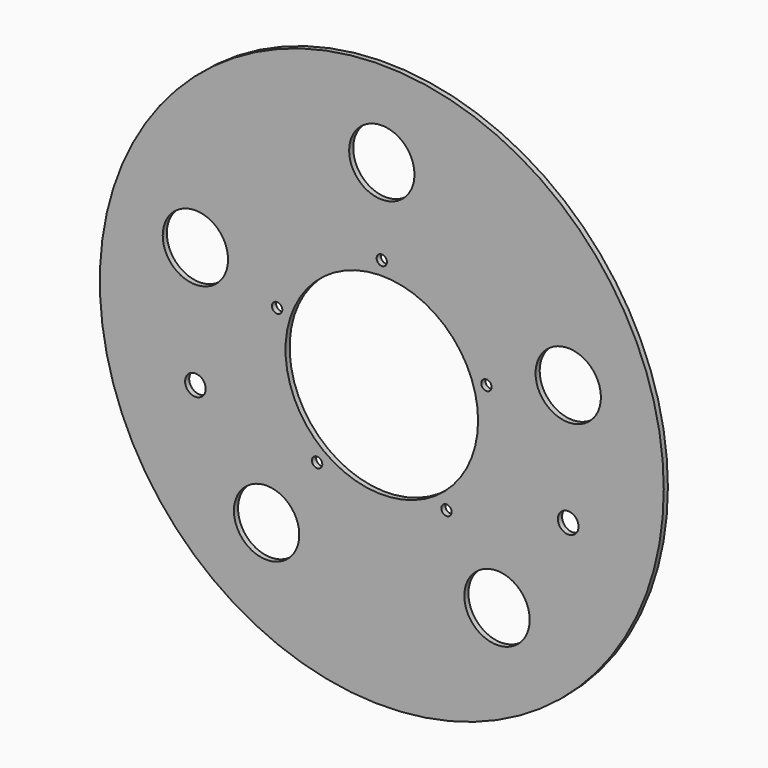
from build123d import *

# Parameters (mm, degrees)
F0_R     = 82
F0_R_2   = 32
F0_R_3   = 28
F1_DEPTH = 1.5
F2_D     = 19
F3_D     = 6
F4_D     = 3


with BuildPart() as f1:
    # F0 (on Front) → F1 (new body)
    with BuildSketch(Plane.XZ):
        Circle(F0_R)
        Circle(F0_R_2, mode=Mode.SUBTRACT)
        Circle(F0_R_2)
        Circle(F0_R_3, mode=Mode.SUBTRACT)
    extrude(amount=-F1_DEPTH)

    # F2 (through all)
    with Locations(Plane.XZ):
        with Locations((0, 57), (54.2102264595, 17.6139531965), (33.5032664595, -46.1143268035), (-33.5032664595, -46.1143268035), (-54.2102264595, 17.6139531965)):
            Hole(F2_D / 2)

    # F3 (through all)
    with Locations(Plane.XZ):
        with Locations((-54.2102163981, -17.6139841623), (54.2102163981, -17.6139841623)):
            Hole(F3_D / 2)

    # F4 (through all)
    with Locations(Plane.XZ):
        with Locations((18.8088513457, -25.8887448722), (30.4338113457, 9.8885351278), (-18.8088513457, -25.8887448722), (-30.4338113457, 9.8885351278), (0, 32)):
            Hole(F4_D / 2)


solid = f1.part
